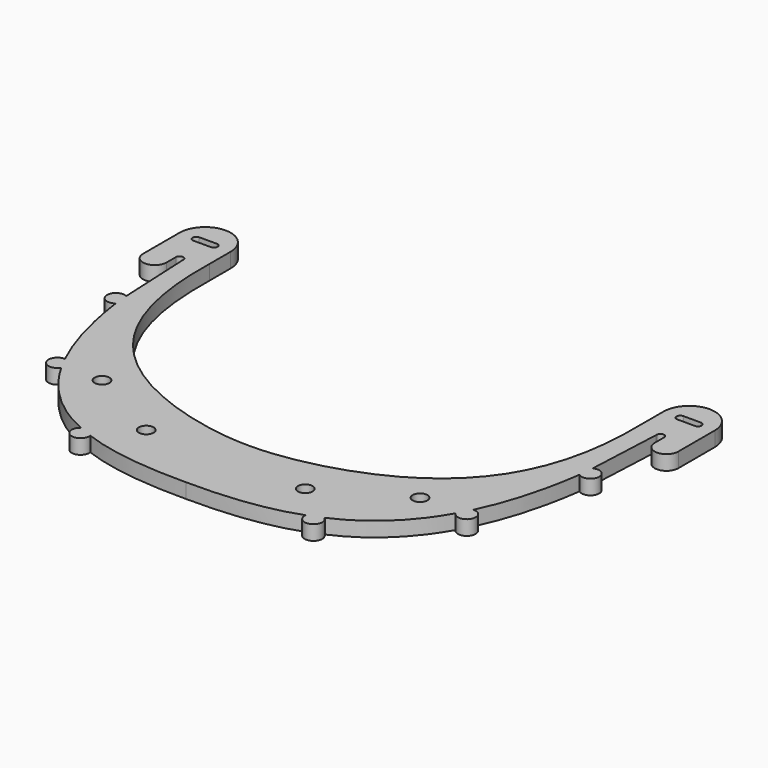
from build123d import *

# Parameters (mm, degrees)
PAD_DEPTH       = 5
POCKET_DEPTH    = 5.001
SKETCH137_R     = 3
PAD001_DEPTH    = 5
SKETCH_R        = 2.5
POCKET001_DEPTH = 5.001


with BuildPart() as body:
    # Sketch135 → Pad (new body)
    with BuildSketch(Plane.XY):
        with BuildLine():
            add(Edge.make_bspline(
                [(-73.5, 101.839707), (-74.771, 49.44), (-49.529, 37.339707), (-22.686, 26.780106), (0, 26.839707)],
                knots=[0, 0, 0, 0, 0, 1, 1, 1, 1, 1], degree=4))
            Line((0, 26.839707), (0, 0))
            add(Edge.make_bspline(
                [(0, 0), (-24.669, -0.204), (-39, 6.04)],
                knots=[0, 0, 0, 1, 1, 1], degree=2))
            add(Edge.make_bspline(
                [(-39, 6.04), (-72.6, 18.986), (-79.11, 71.198)],
                knots=[0, 0, 0, 1, 1, 1], degree=2))
            add(Edge.make_bspline(
                [(-79.11, 71.198), (-80.407, 98.996)],
                knots=[0, 0, 1, 1], degree=1))
            Line((-80.407, 98.996), (-80.407, 99.34))
            ThreePointArc((-80.407, 99.34), (-81.657, 100.59), (-82.907, 99.34))
            Line((-82.907, 99.34), (-82.907, 95.34))
            ThreePointArc((-82.907, 95.34), (-86.907, 91.34), (-90.907, 95.34))
            Line((-90.907, 95.34), (-90.907, 110.839707))
            ThreePointArc((-90.907, 110.839707), (-82.2035, 119.543207), (-73.5, 110.839707))
            Line((-73.5, 110.839707), (-73.5, 101.839707))
        make_face()
    extrude(amount=PAD_DEPTH)

    # Sketch136 (on Face14 of Pad) → Pocket (cut, through all)
    with BuildSketch(Plane.XY.offset(5)):
        with BuildLine():
            ThreePointArc((-85.2035, 112.089707), (-86.4535, 110.839707), (-85.2035, 109.589707))
            Line((-85.2035, 109.589707), (-79.2035, 109.589707))
            ThreePointArc((-79.2035, 109.589707), (-77.9535, 110.839707), (-79.2035, 112.089707))
            Line((-85.2035, 112.089707), (-79.2035, 112.089707))
        make_face()
    extrude(amount=-POCKET_DEPTH, mode=Mode.SUBTRACT)

    # Sketch137 (on Face5 of Pocket) → Pad001 (join)
    with BuildSketch(Plane.XY.offset(5)):
        with Locations((-39.549752, 4.644374)):
            Circle(SKETCH137_R)
        with Locations((-80.589428, 70.950429)):
            Circle(SKETCH137_R)
        with Locations((-69.533947, 32.279444)):
            Circle(SKETCH137_R)
    extrude(amount=-PAD001_DEPTH)

    # Sketch (on Face23 of Pad001) → Pocket001 (cut, through all)
    with BuildSketch(Plane.XY.offset(5)):
        with Locations((-27, 16.839707)):
            Circle(SKETCH_R)
        with Locations((-54, 31.839707)):
            Circle(SKETCH_R)
    extrude(amount=-POCKET001_DEPTH, mode=Mode.SUBTRACT)


with BuildPart() as fusion:
    # Part__Mirroring: instance of Body
    add(body.part.mirror(Plane(origin=(0, 0, 0), x_dir=(0, -1, 0), z_dir=(1, 0, 0))))

    # Fusion: union Body
    add(body.part)


solid = fusion.part
